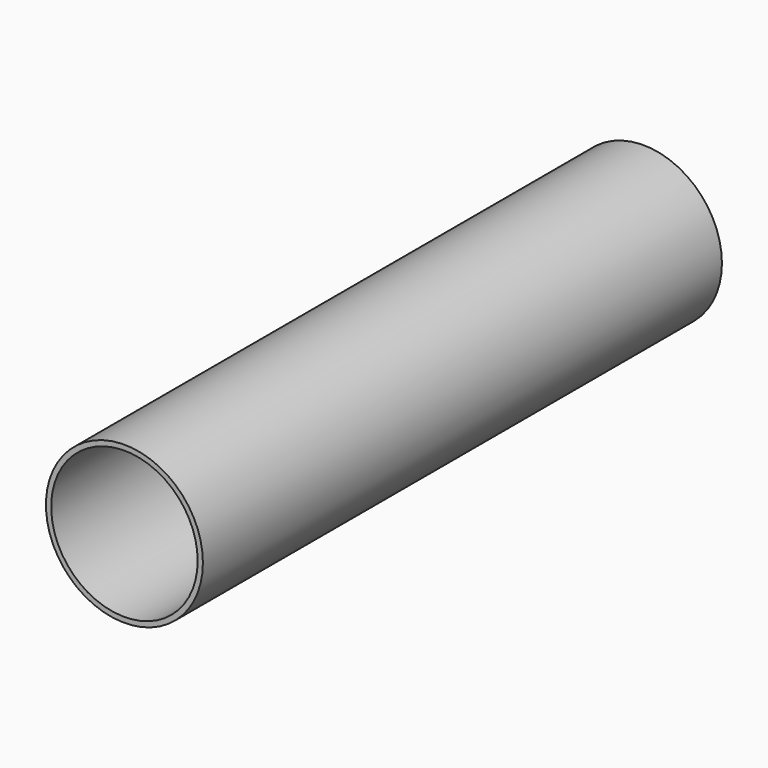
from build123d import *

# Parameters (mm, degrees)
F0_R     = 15
F0_R_2   = 14
F1_DEPTH = 124
F3_W     = 6.176928
F3_H     = 5.5
F4_DEPTH = 6


with BuildPart() as f1:
    # F0 (on Front) → F1 (new body)
    with BuildSketch(Plane.XZ):
        Circle(F0_R)
        Circle(F0_R_2, mode=Mode.SUBTRACT)
    extrude(amount=-F1_DEPTH)

    # F3 (on offset) → F4 (join)
    with BuildSketch(Plane.XZ.offset(-20)):
        with Locations((11.088464, 0)):
            Rectangle(F3_W, F3_H)
    extrude(amount=-F4_DEPTH)


solid = f1.part
